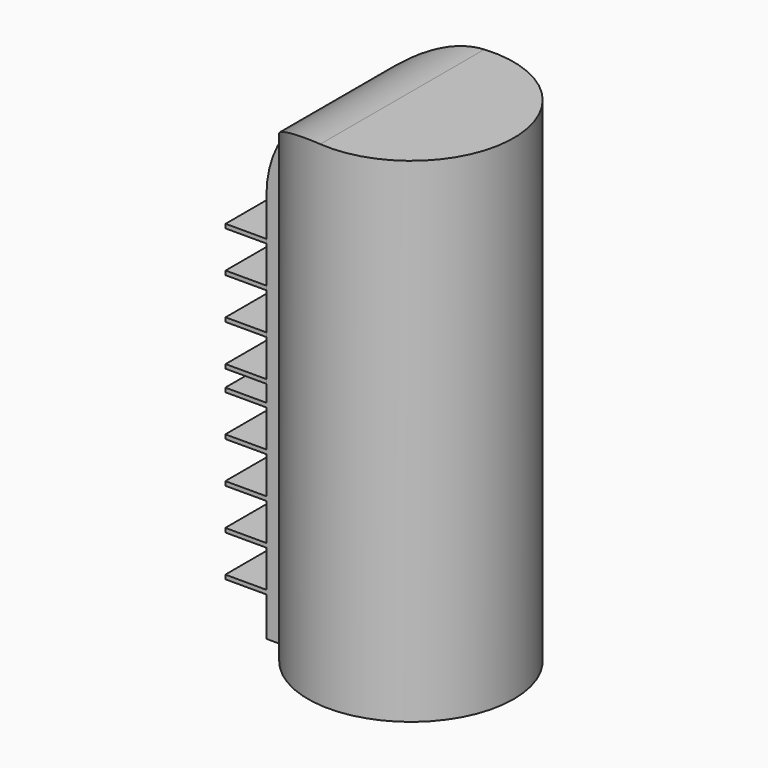
from build123d import *

# Parameters (mm, degrees)
F1_DEPTH = 304.8
F2_R     = 63.5
F4_DEPTH = 25.4


with BuildPart() as f1:
    # F0 (on Top) → F1 (new body)
    with BuildSketch(Plane.XY):
        with BuildLine():
            Line((-68.801289, -25.4), (-58.198711, -25.4))
            ThreePointArc((-58.198711, -25.4), (63.5, 0), (-58.198711, 25.4))
            Line((-58.198711, 25.4), (-68.801289, 25.4))
            Line((-68.801289, 25.4), (-68.801289, -25.4))
        make_face()
    extrude(amount=F1_DEPTH)

    # F2
    f2_edges = [f1.edges().sort_by_distance(p)[0] for p in [
        (-68.801289, 0, 304.8),
    ]]
    fillet(f2_edges, radius=F2_R)

    # F3 (on face) → F4 (join)
    with BuildSketch(Plane(origin=(-68.801289, 0, 0), x_dir=(0, -1, 0), z_dir=(-1, 0, 0))):
        Polygon((-0.093374, 215.9), (-0.093374, 217.17), (-25.4, 217.17), (-25.4, 214.63), (-0.093374, 214.63), align=None)
        Polygon((25.213252, 217.17), (-0.093374, 217.17), (-0.093374, 215.9), (-0.093374, 214.63), (25.213252, 214.63), align=None)
        Polygon((-0.093374, 190.5), (-0.093374, 189.23), (25.213252, 189.23), (25.213252, 191.77), (-0.093374, 191.77), align=None)
        Polygon((-25.4, 191.77), (-25.4, 189.23), (-0.093374, 189.23), (-0.093374, 190.5), (-0.093374, 191.77), align=None)
        Polygon((-25.4, 166.37), (-25.4, 163.83), (-0.093374, 163.83), (-0.093374, 165.1), (-0.093374, 166.37), align=None)
        Polygon((-0.093374, 165.1), (-0.093374, 163.83), (25.213252, 163.83), (25.213252, 166.37), (-0.093374, 166.37), align=None)
        Polygon((-25.4, 128.27), (-25.4, 125.73), (0, 125.73), (0, 127), (-0.009337, 128.27), align=None)
        Polygon((-25.4, 140.97), (-25.4, 138.43), (-0.084037, 138.43), (-0.093374, 139.7), (-0.093374, 140.97), align=None)
        Polygon((-0.093374, 139.7), (-0.084037, 138.43), (25.213252, 138.43), (25.213252, 140.97), (-0.093374, 140.97), align=None)
        Polygon((0, 127), (0, 125.73), (25.4, 125.73), (25.4, 128.27), (-0.009337, 128.27), align=None)
        Polygon((-25.4, 102.87), (-25.4, 100.33), (0, 100.33), (0, 101.6), (0, 102.87), align=None)
        Polygon((0, 101.6), (0, 100.33), (25.4, 100.33), (25.4, 102.87), (0, 102.87), align=None)
        Polygon((-25.4, 77.47), (-25.4, 74.93), (0, 74.93), (0, 76.2), (0, 77.47), align=None)
        Polygon((-25.4, 52.07), (-25.4, 49.53), (0, 49.53), (0, 50.8), (0, 52.07), align=None)
        Polygon((0, 50.8), (0, 49.53), (25.4, 49.53), (25.4, 52.07), (0, 52.07), align=None)
        Polygon((0, 76.2), (0, 74.93), (25.4, 74.93), (25.4, 77.47), (0, 77.47), align=None)
        Polygon((-25.4, 26.67), (-25.4, 24.13), (0, 24.13), (0, 25.4), (0, 26.67), align=None)
        Polygon((0, 25.4), (0, 24.13), (25.4, 24.13), (25.4, 26.67), (0, 26.67), align=None)
    extrude(amount=F4_DEPTH)


solid = f1.part
